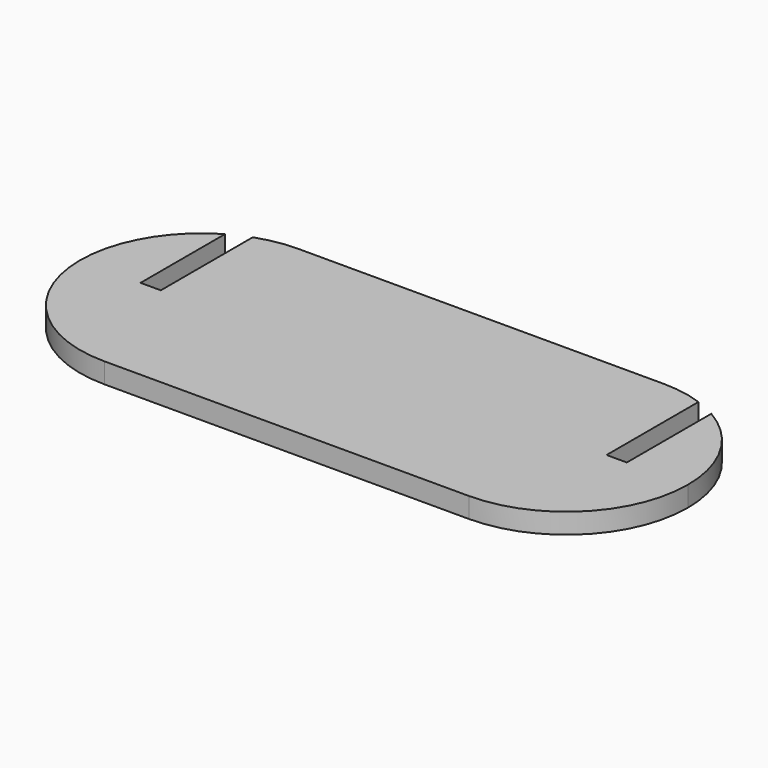
from build123d import *

# Parameters (mm, degrees)
PAD001_DEPTH = 50.8


with BuildPart() as part:
    # Sketch001 → Pad001 (new body)
    with BuildSketch(Plane.XY):
        with BuildLine():
            Line((-1503.823196, -304.048014), (-589.423152, -304.048014))
            ThreePointArc((-589.423152, -304.048014), (-373.896963, -214.774184), (-284.623087, 0.751986))
            ThreePointArc((-284.623087, 0.751986), (-325.458497, 153.151905), (-437.022924, 264.716435))
            Line((-437.022924, 264.716435), (-437.022924, 0))
            Line((-487.822924, 0), (-437.022924, 0))
            Line((-487.822924, 288.120125), (-487.822924, 0))
            ThreePointArc((-487.822924, 288.120125), (-537.880751, 301.162418), (-589.423152, 305.551986))
            Line((-589.423152, 305.551986), (-1503.823152, 305.551986))
            ThreePointArc((-1503.823152, 305.551986), (-1555.365469, 301.162433), (-1605.423218, 288.120182))
            Line((-1605.423218, 288.120182), (-1605.423218, 0))
            Line((-1656.223218, 0), (-1605.423218, 0))
            Line((-1656.223218, 264.716529), (-1656.223218, 0))
            ThreePointArc((-1656.223218, 264.716529), (-1767.787761, 153.151986), (-1808.623218, 0.751986))
            ThreePointArc((-1808.623218, 0.751986), (-1719.349357, -214.774168), (-1503.823196, -304.048014))
        make_face()
    extrude(amount=PAD001_DEPTH)


with BuildPart() as part_1:
    # Body001 placement: moved
    add(part.part.moved(Location((1653.996692, -189.99962, -23.999952))))


solid = part_1.part
